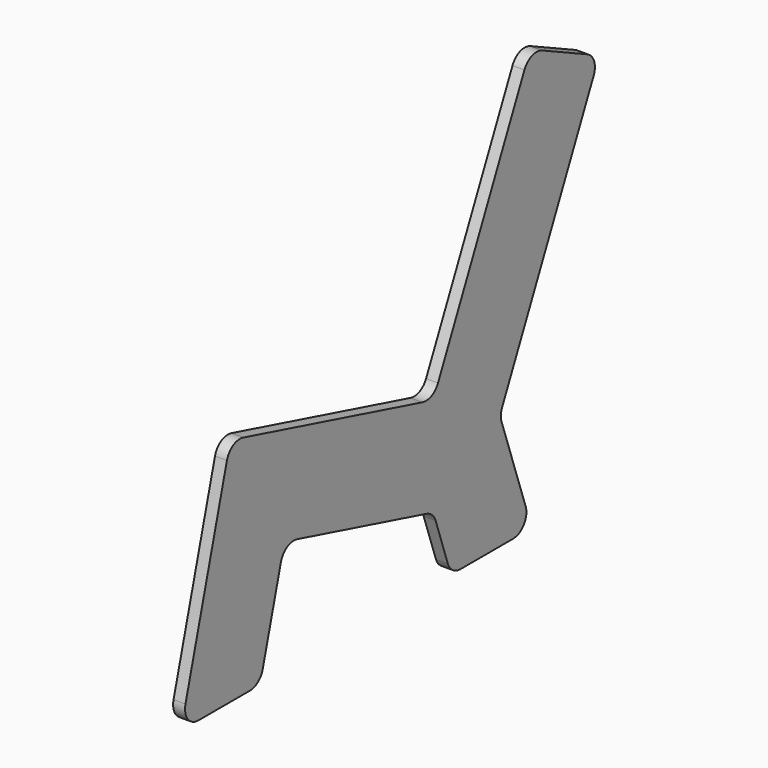
from build123d import *

# Parameters (mm, degrees)
F2_DEPTH = 25
F3_R     = 35
F4_R     = 35


with BuildPart() as f2:
    # F1 (on offset) → F2 (new body)
    with BuildSketch(Plane.YZ.offset(-400)):
        Polygon((129.409523, 482.962913), (0, 0), (207.055236, 0), (270.830879, 238.013939), (660.668727, 133.557202), (707.055236, 0), (918.77469, 0), (834.995909, 241.21797), (1095.501241, 799.873458), (914.239684, 884.397111), (660.668727, 340.612438), align=None)
    extrude(amount=F2_DEPTH)

    # F3
    f3_edges = [f2.edges().sort_by_distance(p)[0] for p in [
        (-387.5, 914.239684, 884.397111),
        (-387.5, 1095.501241, 799.873458),
        (-387.5, 660.668727, 340.612438),
        (-387.5, 129.409523, 482.962913),
        (-387.5, 707.055236, 0),
        (-387.5, 0, 0),
        (-387.5, 918.77469, 0),
        (-387.5, 207.055236, 0),
        (-387.5, 270.830879, 238.013939),
        (-387.5, 660.668727, 133.557202),
    ]]
    fillet(f3_edges, radius=F3_R)

    # F4
    f4_edges = [f2.edges().sort_by_distance(p)[0] for p in [
        (-387.5, 834.995909, 241.21797),
    ]]
    fillet(f4_edges, radius=F4_R)


solid = f2.part
